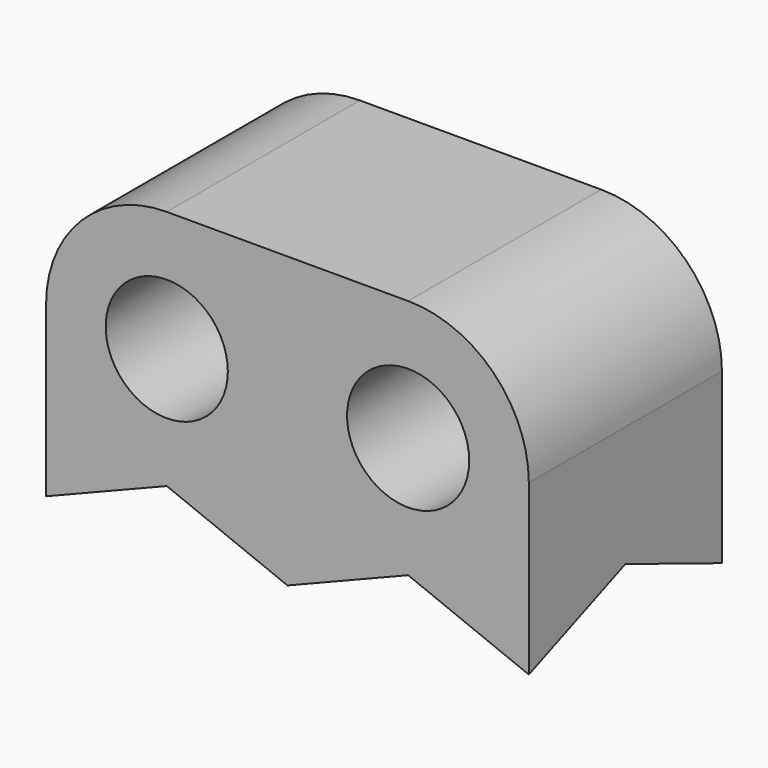
from build123d import *

# Parameters (mm, degrees)
F0_R     = 2.53
F1_DEPTH = 10


with BuildPart() as f1:
    # F0 (on Front) → F1 (new body)
    with BuildSketch(Plane.XZ):
        with BuildLine():
            Line((5, 5), (-5, 5))
            ThreePointArc((-5, 5), (-8.5355339059, 3.5355339059), (-10, 0))
            Line((-10, 0), (-10, -5))
            Line((-10, -5), (10, -5))
            Line((10, -5), (10, 0))
            ThreePointArc((10, 0), (8.5355339059, 3.5355339059), (5, 5))
        make_face()
        with Locations((-5, 0)):
            Circle(F0_R, mode=Mode.SUBTRACT)
        with Locations((5, 0)):
            Circle(F0_R, mode=Mode.SUBTRACT)
    extrude(amount=F1_DEPTH)

    # F3 (on face) → F6 section 0
    with BuildSketch(Plane(origin=(0, 0, 0), x_dir=(-1, 0, 0), z_dir=(0, 1, 0)), mode=Mode.PRIVATE) as f6_s0:
        Polygon((0, -7), (5, -5), (-5, -5), align=None)
    loft([f6_s0.sketch, Vertex(0, -5, -5)])

    # F3 (on face) → F7 section 0
    with BuildSketch(Plane(origin=(0, 0, 0), x_dir=(-1, 0, 0), z_dir=(0, 1, 0)), mode=Mode.PRIVATE) as f7_s0:
        Polygon((5, -5), (10, -7), (10, -5), align=None)
    loft([f7_s0.sketch, Vertex(-10, -5, -5)])

    # F5 (on offset) → F8 section 0
    with BuildSketch(Plane(origin=(0, -5, 0), x_dir=(-1, 0, 0), z_dir=(0, 1, 0)), mode=Mode.PRIVATE) as f8_s0:
        Polygon((5, -7), (10, -5), (0, -5), align=None)
    loft([f8_s0.sketch, Vertex(-5, 0, -5)])

    # F3 (on face) → F9 section 0
    with BuildSketch(Plane(origin=(0, 0, 0), x_dir=(-1, 0, 0), z_dir=(0, 1, 0)), mode=Mode.PRIVATE) as f9_s0:
        Polygon((-10, -7), (-5, -5), (-10, -5), align=None)
    loft([f9_s0.sketch, Vertex(10, -5, -5)])

    # F5 (on offset) → F10 section 0
    with BuildSketch(Plane(origin=(0, -5, 0), x_dir=(-1, 0, 0), z_dir=(0, 1, 0)), mode=Mode.PRIVATE) as f10_s0:
        Polygon((-5, -7), (0, -5), (-10, -5), align=None)
    loft([f10_s0.sketch, Vertex(5, 0, -5)])

    # F2 (on face) → F11 section 0
    with BuildSketch(Plane.XZ.offset(10), mode=Mode.PRIVATE) as f11_s0:
        Polygon((-5, -5), (-10, -5), (-10, -7), align=None)
    loft([f11_s0.sketch, Vertex(-10, -5, -5)])

    # F2 (on face) → F12 section 0
    with BuildSketch(Plane.XZ.offset(10), mode=Mode.PRIVATE) as f12_s0:
        Polygon((10, -5), (5, -5), (10, -7), align=None)
    loft([f12_s0.sketch, Vertex(10, -5, -5)])

    # F2 (on face) → F13 section 0
    with BuildSketch(Plane.XZ.offset(10), mode=Mode.PRIVATE) as f13_s0:
        Polygon((5, -5), (-5, -5), (0, -7), align=None)
    loft([f13_s0.sketch, Vertex(0, -5, -5)])

    # F5 (on offset) → F14 section 0
    with BuildSketch(Plane(origin=(0, -5, 0), x_dir=(-1, 0, 0), z_dir=(0, 1, 0)), mode=Mode.PRIVATE) as f14_s0:
        Polygon((5, -7), (10, -5), (0, -5), align=None)
    loft([f14_s0.sketch, Vertex(-5, -10, -5)])

    # F5 (on offset) → F15 section 0
    with BuildSketch(Plane(origin=(0, -5, 0), x_dir=(-1, 0, 0), z_dir=(0, 1, 0)), mode=Mode.PRIVATE) as f15_s0:
        Polygon((-5, -7), (0, -5), (-10, -5), align=None)
    loft([f15_s0.sketch, Vertex(5, -10, -5)])


solid = f1.part
